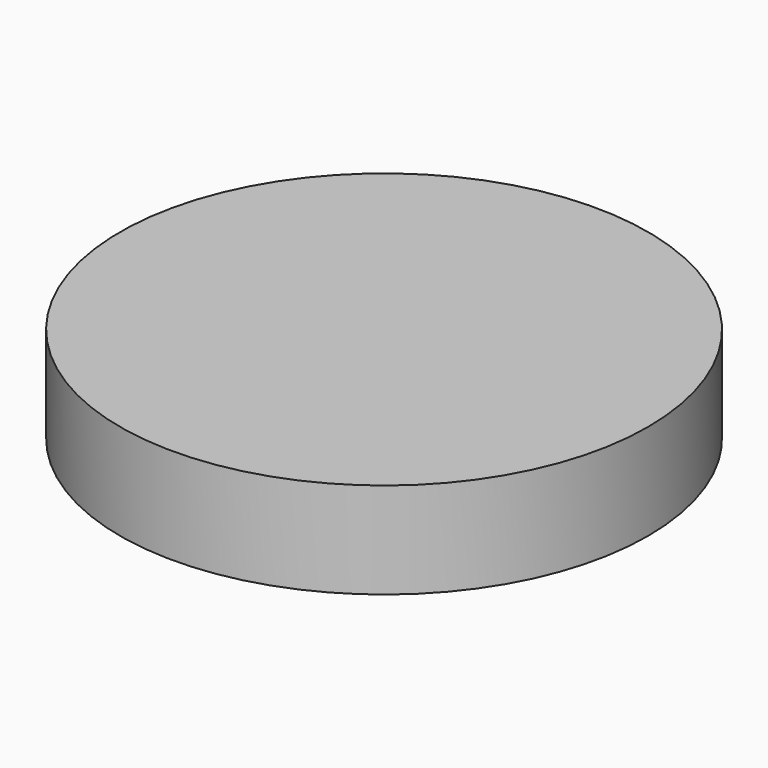
from build123d import *

# Parameters (mm, degrees)
TORUS_R        = 7
CYLINDER_R     = 55
CYLINDER_DEPTH = 20


with BuildPart() as torus:
    # Torus → Torus (revolve)
    with BuildSketch(Plane(origin=(0, 0, -18), x_dir=(1, 0, 0), z_dir=(0, -1, 0))):
        with Locations((35, 0)):
            Circle(TORUS_R)
    revolve(axis=Axis((0, 0, -18), (0, 0, 1)))


with BuildPart() as cut001:
    # Cylinder → Cylinder (new body)
    with BuildSketch(Plane.XY.offset(-16)):
        Circle(CYLINDER_R)
    extrude(amount=CYLINDER_DEPTH)

    # Cut001: cut Torus
    add(torus.part, mode=Mode.SUBTRACT)


solid = cut001.part
